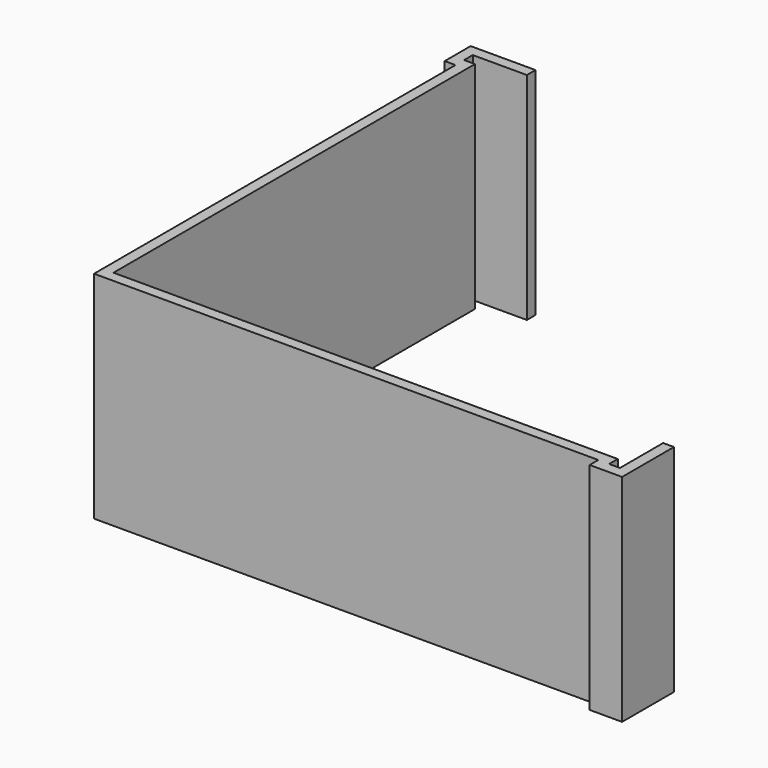
from build123d import *

# Parameters (mm, degrees)
F0_W     = 101.3
F0_H     = 91.6
F1_DEPTH = 39.9
F3_DEPTH = 39.9
F4_W     = 91.3
F4_H     = 81.6
F5_DEPTH = 25
F7_DEPTH = 40


with BuildPart() as f1:
    # F0 (on Top) → F1 (new body)
    with BuildSketch(Plane.XY):
        Rectangle(F0_W, F0_H)
    extrude(amount=F1_DEPTH)

    # F2 (on face) → F3 (cut)
    with BuildSketch(Plane.XY.offset(39.9)):
        Polygon((50.65, 45.8), (-38.65, 45.8), (-38.65, 43.8), (-48.65, 43.8), (-48.65, 41.8), (-46.65, 41.8), (-46.65, -41.8), (46.65, -41.8), (46.65, -43.8), (48.65, -43.8), (48.65, -33.8), (50.65, -33.8), align=None)
    extrude(amount=-F3_DEPTH, mode=Mode.SUBTRACT)

    # F4 (on face) → F5 (cut)
    with BuildSketch(Plane(origin=(0, 0, 0), x_dir=(1, 0, 0), z_dir=(0, 0, -1))):
        Rectangle(F4_W, F4_H)
    extrude(amount=-F5_DEPTH, mode=Mode.SUBTRACT)

    # F6 (on face) → F7 (cut)
    with BuildSketch(Plane.XY.offset(39.9)):
        Polygon((-48.65, 39.8), (-50.65, 39.8), (-50.65, -45.8), (44.65, -45.8), (44.65, -43.8), (-48.65, -43.8), align=None)
    extrude(amount=-F7_DEPTH, mode=Mode.SUBTRACT)


solid = f1.part
